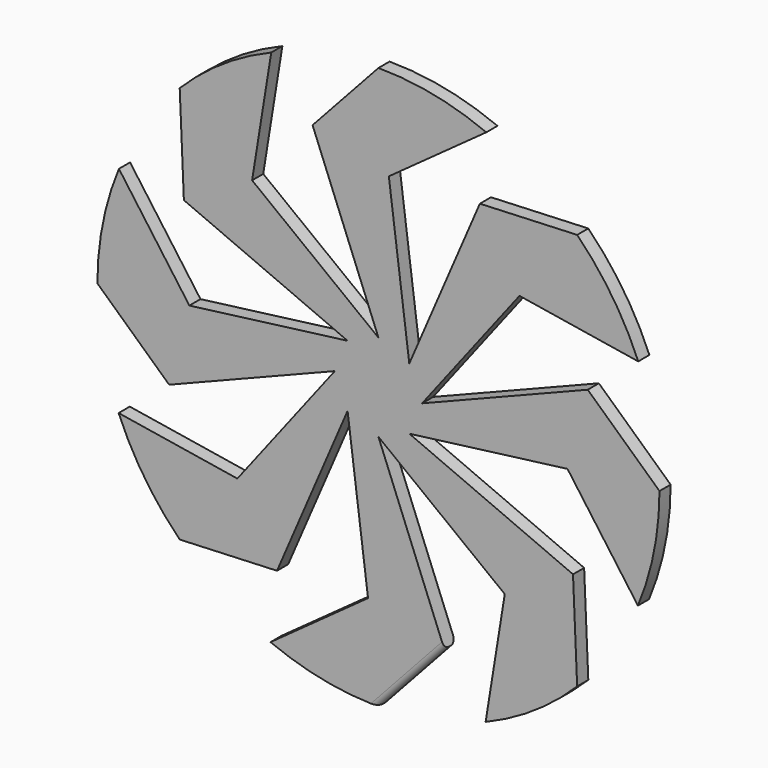
from build123d import *

# Parameters (mm, degrees)
F1_DEPTH = 12.7
F2_R     = 5.08


with BuildPart() as f1:
    # F0 (on Front) → F1 (new body)
    with BuildSketch(Plane.XZ):
        with BuildLine():
            Line((-115.263864, 128.689408), (-97.801802, 237.033346))
            ThreePointArc((-97.801802, 237.033346), (-142.311774, 213.301099), (-181.314643, 181.314643))
            Line((-181.314643, 181.314643), (-177.524596, 92.538022))
            Line((-177.524596, 92.538022), (-28.148923, 28.148923))
            Line((-28.148923, 28.148923), (-172.501013, 9.493293))
            Line((-172.501013, 9.493293), (-236.764204, 98.451569))
            ThreePointArc((-236.764204, 98.451569), (-251.456274, 50.197033), (-256.417628, 0))
            Line((-256.417628, 0), (-190.963109, -60.094583))
            Line((-190.963109, -60.094583), (-39.808589, 0))
            Line((-39.808589, 0), (-128.689408, -115.263864))
            Line((-128.689408, -115.263864), (-237.033346, -97.801802))
            ThreePointArc((-237.033346, -97.801802), (-213.301099, -142.311774), (-181.314643, -181.314643))
            Line((-181.314643, -181.314643), (-92.538022, -177.524596))
            Line((-92.538022, -177.524596), (-28.148923, -28.148923))
            Line((-28.148923, -28.148923), (-9.493293, -172.501013))
            Line((-9.493293, -172.501013), (-98.451569, -236.764204))
            ThreePointArc((-98.451569, -236.764204), (-50.197033, -251.456274), (0, -256.417628))
            Line((0, -256.417628), (60.094583, -190.963109))
            Line((60.094583, -190.963109), (0, -39.808589))
            Line((0, -39.808589), (115.263864, -128.689408))
            Line((115.263864, -128.689408), (97.801802, -237.033346))
            ThreePointArc((97.801802, -237.033346), (142.311774, -213.301099), (181.314643, -181.314643))
            Line((181.314643, -181.314643), (177.524596, -92.538022))
            Line((177.524596, -92.538022), (28.148923, -28.148923))
            Line((28.148923, -28.148923), (172.501013, -9.493293))
            Line((172.501013, -9.493293), (236.764204, -98.451569))
            ThreePointArc((236.764204, -98.451569), (251.456274, -50.197033), (256.417628, 0))
            Line((256.417628, 0), (190.963109, 60.094583))
            Line((190.963109, 60.094583), (39.808589, 0))
            Line((39.808589, 0), (128.689408, 115.263864))
            Line((128.689408, 115.263864), (237.033346, 97.801802))
            ThreePointArc((237.033346, 97.801802), (213.301099, 142.311774), (181.314643, 181.314643))
            Line((181.314643, 181.314643), (92.538022, 177.524596))
            Line((92.538022, 177.524596), (28.148923, 28.148923))
            Line((28.148923, 28.148923), (9.493293, 172.501013))
            Line((9.493293, 172.501013), (98.451569, 236.764204))
            ThreePointArc((98.451569, 236.764204), (50.197033, 251.456274), (0, 256.417628))
            Line((0, 256.417628), (-60.094583, 190.963109))
            Line((-60.094583, 190.963109), (0, 39.808589))
            Line((0, 39.808589), (-115.263864, 128.689408))
        make_face()
    extrude(amount=F1_DEPTH)

    # F2
    f2_edges = [f1.edges().sort_by_distance(p)[0] for p in [
        (30.047292, -12.7, -223.690368),
        (30.047292, 0, -223.690368),
    ]]
    fillet(f2_edges, radius=F2_R)


solid = f1.part
